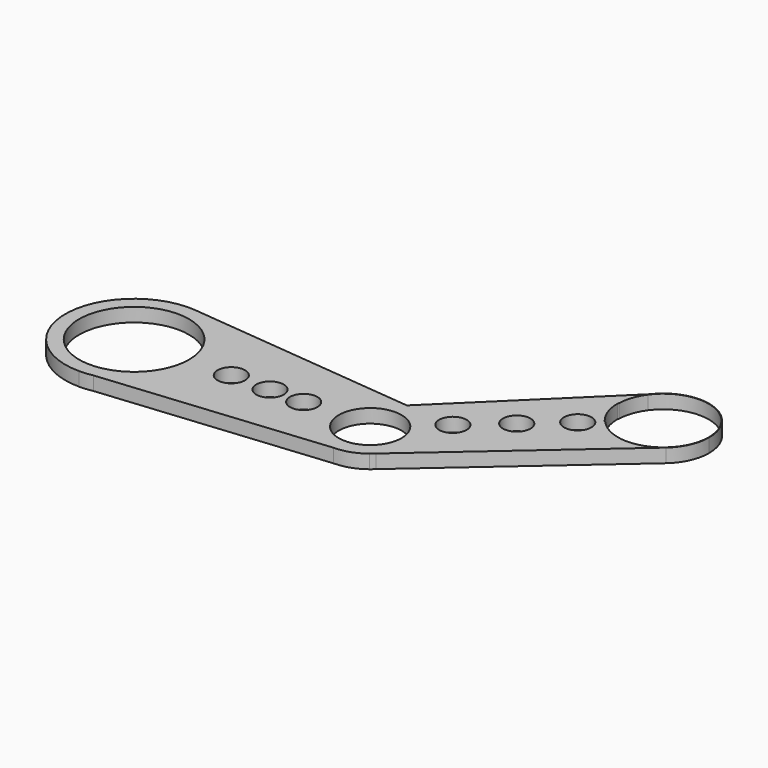
from build123d import *

# Parameters (mm, degrees)
F0_R     = 11.9904594856
F0_R_2   = 3
F1_DEPTH = 3


with BuildPart() as f1:
    # F0 (on Top) → F1 (new body)
    with BuildSketch(Plane.XY):
        with BuildLine():
            ThreePointArc((-12.1153572012, -14.7200148072), (-3.4183411814, -9.5323228549), (0, 0))
            ThreePointArc((0, 0), (-3.8709155487, 10.0570114485), (-13.4857972368, 14.9233772985))
            ThreePointArc((-13.4857972368, 14.9233772985), (-29.9808320776, 0.7580700902), (-15, -15))
            Line((-15, -15), (-12.1153572012, -14.7200148072))
        make_face()
        with Locations((-15, 0)):
            Circle(F0_R, mode=Mode.SUBTRACT)
        with BuildLine():
            ThreePointArc((-13.4857972368, 14.9233772985), (-3.8709155487, 10.0570114485), (0, 0))
            ThreePointArc((0, 0), (-3.4183411814, -9.5323228549), (-12.1153572012, -14.7200148072))
            Line((-12.1153572012, -14.7200148072), (36.5142027632, -10))
            ThreePointArc((36.5142027632, -10), (26.5142027632, 0), (36.5142027632, 10))
            Line((36.5142027632, 10), (-13.4857972368, 14.9233772985))
        make_face()
        with Locations((6.2150359154, 0)):
            Circle(F0_R_2, mode=Mode.SUBTRACT)
        with Locations((14.6543458104, 0)):
            Circle(F0_R_2, mode=Mode.SUBTRACT)
        with Locations((22.0015123487, 0)):
            Circle(F0_R_2, mode=Mode.SUBTRACT)
        with BuildLine():
            ThreePointArc((-15, -15), (-13.5509006431, -14.9298396192), (-12.1153572012, -14.7200148072))
            Line((-12.1153572012, -14.7200148072), (-15, -15))
        make_face()
        with BuildLine():
            ThreePointArc((44.0375149849, 6.5878504245), (40.6446685817, 9.107098996), (36.5142027632, 10))
            ThreePointArc((36.5142027632, 10), (26.5142027632, 0), (36.5142027632, -10))
            ThreePointArc((36.5142027632, -10), (39.7671043031, -9.4561425313), (42.6661828836, -7.8837263143))
            Line((42.6661828836, -7.8837263143), (43.5123325587, -7.1432611156))
            ThreePointArc((43.5123325587, -7.1432611156), (45.7332400761, -3.8741903699), (46.5142027632, 0))
            ThreePointArc((46.5142027632, 0), (45.8745746099, 3.5190110673), (44.0375149849, 6.5878504245))
        make_face()
        with BuildLine():
            ThreePointArc((43.3583631677, 0), (30.1078141267, -2.408467621), (41.6632783251, 4.5088305026))
            ThreePointArc((41.6632783251, 4.5088305026), (42.9205913997, 2.408467621), (43.3583631677, 0))
        make_face(mode=Mode.SUBTRACT)
        with BuildLine():
            Line((66.2282739463, 39.0671108823), (36.5142027632, 10))
            ThreePointArc((36.5142027632, 10), (40.6446685817, 9.107098996), (44.0375149849, 6.5878504245))
            Line((44.0375149849, 6.5878504245), (44.8677292107, 7.3148343617))
            ThreePointArc((44.8677292107, 7.3148343617), (45.1483677498, 11.5481831556), (49.3817165437, 11.2675446164))
            Line((49.3817165437, 11.2675446164), (53.0654896509, 14.4932709338))
            ThreePointArc((53.0654896509, 14.4932709338), (53.34612819, 18.7266197277), (57.5794769839, 18.4459811885))
            Line((57.5794769839, 18.4459811885), (60.8896796087, 21.3445874307))
            ThreePointArc((60.8896796087, 21.3445874307), (61.1703181479, 25.5779362245), (65.4036669417, 25.2972976854))
            Line((65.4036669417, 25.2972976854), (66.6074516499, 26.3514016979))
            ThreePointArc((66.6074516499, 26.3514016979), (64.7703920248, 29.4202410551), (64.1307638715, 32.9392521224))
            ThreePointArc((64.1307638715, 32.9392521224), (64.669661947, 36.1777008828), (66.2282739463, 39.0671108823))
        make_face()
        with BuildLine():
            Line((44.8677292107, 7.3148343617), (44.0375149849, 6.5878504245))
            ThreePointArc((44.0375149849, 6.5878504245), (45.8745746099, 3.5190110673), (46.5142027632, 0))
            ThreePointArc((46.5142027632, 0), (45.7332400761, -3.8741903699), (43.5123325587, -7.1432611156))
            Line((43.5123325587, -7.1432611156), (80.7162342327, 25.4138564436))
            ThreePointArc((80.7162342327, 25.4138564436), (73.4677143901, 22.9612580662), (66.6074516499, 26.3514016979))
            Line((66.6074516499, 26.3514016979), (65.4036669417, 25.2972976854))
            ThreePointArc((65.4036669417, 25.2972976854), (65.9547848292, 24.3766458782), (66.1466732752, 23.320942558))
            ThreePointArc((66.1466732752, 23.320942558), (64.2023765954, 20.512831004), (60.8896796087, 21.3445874307))
            Line((60.8896796087, 21.3445874307), (57.5794769839, 18.4459811885))
            ThreePointArc((57.5794769839, 18.4459811885), (58.1305948714, 17.5253293814), (58.3224833174, 16.4696260612))
            ThreePointArc((58.3224833174, 16.4696260612), (56.3781866375, 13.6615145072), (53.0654896509, 14.4932709338))
            Line((53.0654896509, 14.4932709338), (49.3817165437, 11.2675446164))
            ThreePointArc((49.3817165437, 11.2675446164), (49.9328344312, 10.3468928092), (50.1247228772, 9.2911894891))
            ThreePointArc((50.1247228772, 9.2911894891), (48.1804261974, 6.4830779351), (44.8677292107, 7.3148343617))
        make_face()
        with BuildLine():
            Line((66.1307166189, 38.7820979372), (66.2282739463, 39.0671108823))
            ThreePointArc((66.2282739463, 39.0671108823), (64.669661947, 36.1777008828), (64.1307638715, 32.9392521224))
            Line((64.1307638715, 32.9392521224), (64.228321199, 33.2242650675))
            ThreePointArc((64.228321199, 33.2242650675), (64.7580821351, 36.1474354602), (66.1307166189, 38.7820979372))
        make_face()
        with BuildLine():
            ThreePointArc((84.1307638715, 32.9392521224), (77.369212632, 42.4003540469), (66.2282739463, 39.0671108823))
            Line((66.2282739463, 39.0671108823), (66.1307166189, 38.7820979372))
            ThreePointArc((66.1307166189, 38.7820979372), (77.2037744065, 42.3571186277), (84.0373073283, 32.9392521224))
            ThreePointArc((84.0373073283, 32.9392521224), (77.6168874778, 23.6663590753), (66.6777619252, 26.4129694707))
            Line((66.6777619252, 26.4129694707), (66.6074516499, 26.3514016979))
            ThreePointArc((66.6074516499, 26.3514016979), (73.4677143901, 22.9612580662), (80.7162342327, 25.4138564436))
            ThreePointArc((80.7162342327, 25.4138564436), (83.2372094902, 28.8073460012), (84.1307638715, 32.9392521224))
        make_face()
        with BuildLine():
            Line((43.5123325587, -7.1432611156), (42.6661828836, -7.8837263143))
            ThreePointArc((42.6661828836, -7.8837263143), (43.0996731243, -7.5253956788), (43.5123325587, -7.1432611156))
        make_face()
    extrude(amount=F1_DEPTH)


solid = f1.part
